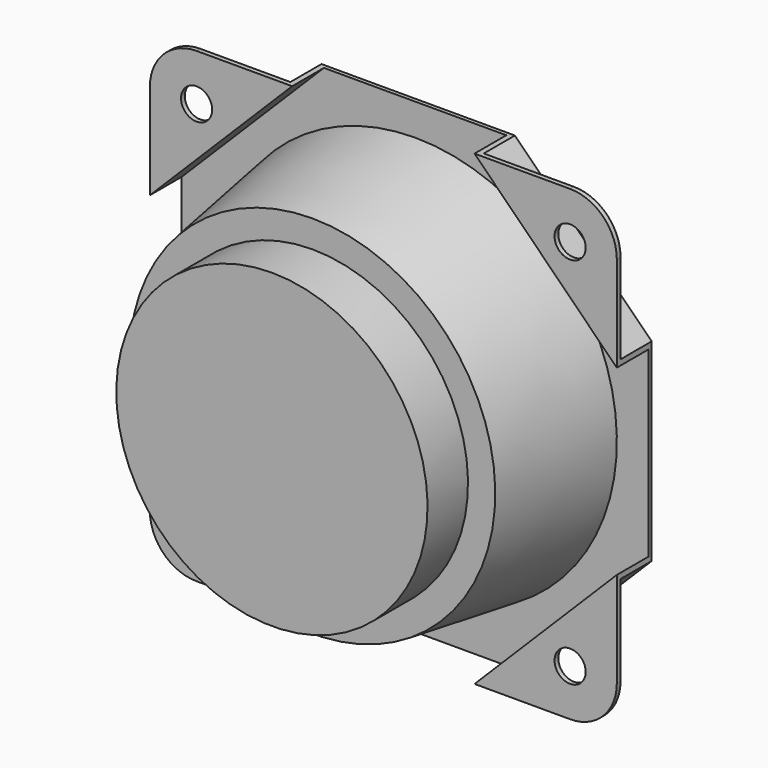
from build123d import *

# Parameters (mm, degrees)
F0_R     = 2
F0_R_2   = 25.5
F1_DEPTH = 5.6
F2_W     = 163.1465554237
F2_H     = 104.492045939
F3_DEPTH = 5
F4_START = 0.5
F4_DEPTH = 5.1


with BuildPart() as f1:
    # F0 (on Front) → F1 (new body)
    with BuildSketch(Plane.XZ):
        with BuildLine():
            Line((-24, -30), (24, -30))
            ThreePointArc((24, -30), (28.2426406871, -28.2426406871), (30, -24))
            Line((30, -24), (30, 24))
            ThreePointArc((30, 24), (28.2426406871, 28.2426406871), (24, 30))
            Line((24, 30), (-24, 30))
            ThreePointArc((-24, 30), (-28.2426406871, 28.2426406871), (-30, 24))
            Line((-30, 24), (-30, -24))
            ThreePointArc((-30, -24), (-28.2426406871, -28.2426406871), (-24, -30))
        make_face()
        with Locations((-24, -24)):
            Circle(F0_R, mode=Mode.SUBTRACT)
        with Locations((24, -24)):
            Circle(F0_R, mode=Mode.SUBTRACT)
        with Locations((-24, 24)):
            Circle(F0_R, mode=Mode.SUBTRACT)
        Circle(F0_R_2, mode=Mode.SUBTRACT)
        with Locations((24, 24)):
            Circle(F0_R, mode=Mode.SUBTRACT)
    extrude(amount=F1_DEPTH)

    # F2 (on Front) → F3 (cut)
    with BuildSketch(Plane.XZ):
        Rectangle(F2_W, F2_H)
        Polygon((0, 42.4264068712), (42.4264068712, 0), (0, -42.4264068712), (-42.4264068712, 0), align=None, mode=Mode.SUBTRACT)
    extrude(amount=F3_DEPTH, mode=Mode.SUBTRACT)

    # F2 (on Front) → F4 (cut)
    with BuildSketch(Plane.XZ.offset(F4_START)):
        Polygon((41.71930009, 0), (0, 41.71930009), (-41.71930009, 0), (0, -41.71930009), align=None)
    extrude(amount=F4_DEPTH, mode=Mode.SUBTRACT)

    # F5 (on Right) → F6 (revolve)
    with BuildSketch(Plane.YZ):
        Polygon((0, 25.4946223448), (0, 26), (-17, 23.5), (-17, 20), (-23.5, 20), (-23.5, 0), (-23, 0), (-23, 19.5), (-16.5, 19.5), (-16.5, 23.0681517565), align=None)
    revolve(axis=Axis((0, -23.25, 0), (0, 1, 0)))


with BuildPart() as f8:
    # F7 (on Top) → F8 (revolve)
    with BuildSketch(Plane.XY):
        with BuildLine():
            Line((29.4825502516, -0.4996954135), (29.5, 0))
            Line((29.5, 0), (25.5, 0.139683078))
            ThreePointArc((25.5, 0.139683078), (25.3530225464, 0.1939373669), (25.2671947524, 0.3250079185))
            ThreePointArc((25.2671947524, 0.3250079185), (24.1040899818, 2.4855124371), (22.0947954211, 3.893819169))
            ThreePointArc((22.0947954211, 3.893819169), (21.5404777106, 4), (20.98616, 3.893819169))
            ThreePointArc((20.98616, 3.893819169), (19.4552658731, 2.6058821314), (19, 0.6577672413))
            ThreePointArc((19, 0.6577672413), (18.9221985588, 0.3410530191), (18.6656617981, 0.139683078))
            ThreePointArc((18.6656617981, 0.139683078), (9.4639386646, -2.2096043957), (0, -3))
            Line((0, -3), (0, -3.5))
            ThreePointArc((0, -3.5), (9.5468767306, -2.7026776937), (18.829239981, -0.3328020309))
            ThreePointArc((18.829239981, -0.3328020309), (19.3423135024, 0.0699378514), (19.4979163848, 0.7033662957))
            ThreePointArc((19.4979163848, 0.7033662957), (19.8814037042, 2.3443356749), (21.1709325702, 3.4292127793))
            ThreePointArc((21.1709325702, 3.4292127793), (21.5404777105, 3.5), (21.9100228509, 3.4292127793))
            ThreePointArc((21.9100228509, 3.4292127793), (23.7303917004, 2.1533233426), (24.7841345088, 0.1959621862))
            ThreePointArc((24.7841345088, 0.1959621862), (25.0416178907, -0.1972494689), (25.4825502516, -0.3600123355))
            Line((25.4825502516, -0.3600123355), (29.4825502516, -0.4996954135))
        make_face()
    revolve(axis=Axis((0, -3.25, 0), (0, 1, 0)))


solid = Compound([f1.part, f8.part])
